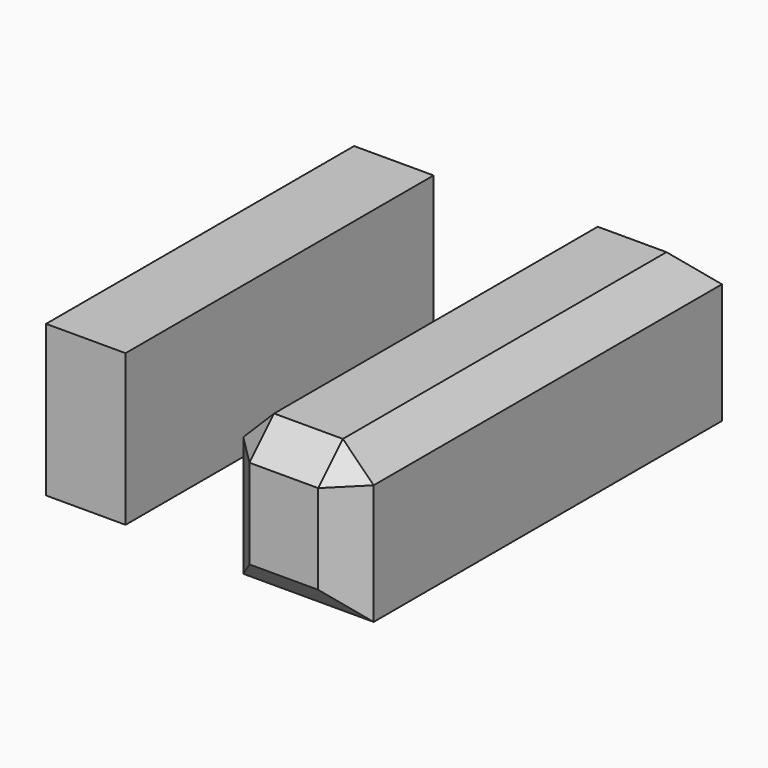
from build123d import *

# Parameters (mm, degrees)
F0_W     = 13.107435
F0_H     = 63.49616
F0_W_2   = 21.499444
F0_H_2   = 76.872785
F1_DEPTH = 24.92603
F2_SIZE  = 5.08


with BuildPart() as f1:
    # F0 (on Top) → F1 (new body)
    with BuildSketch(Plane.XY):
        with Locations((0.766701, -7.113411)):
            Rectangle(F0_W, F0_H)
        with Locations((38.440557, -6.691096)):
            Rectangle(F0_W_2, F0_H_2)
    extrude(amount=F1_DEPTH)

    # F2
    f2_edges = [f1.edges().sort_by_distance(p)[0] for p in [
        (49.190279, -6.691096, 24.92603),
        (38.440557, 31.745296, 24.92603),
        (27.690835, -6.691096, 24.92603),
        (38.440557, -45.127489, 24.92603),
        (27.690835, -45.127489, 12.463015),
        (49.190279, -45.127489, 12.463015),
        (38.440557, -45.127489, 0),
    ]]
    chamfer(f2_edges, length=F2_SIZE)


solid = f1.part
